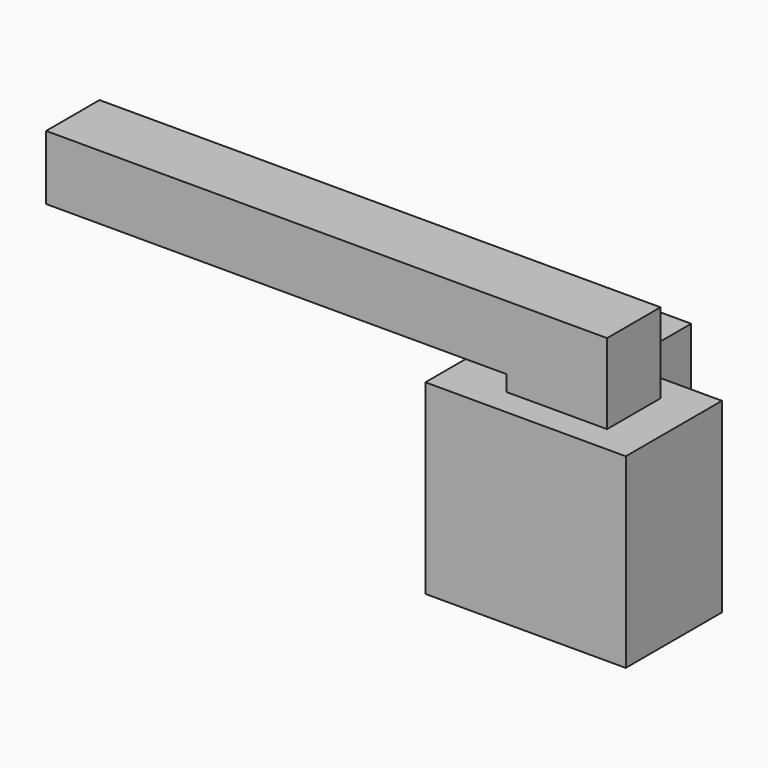
from build123d import *

# Parameters (mm, degrees)
F0_W     = 1500
F0_H     = 900
F1_DEPTH = 697.5
F2_W     = 250
F2_H     = 555
F3_DEPTH = 650
F4_W     = 1200
F4_H     = 500
F4_W_2   = 3000
F5_DEPTH = 600
F6_W     = 3447.103292
F6_H     = 118.000617
F7_DEPTH = 700


with BuildPart() as f1:
    # F0 (on Top) → F1 (new body, symmetric)
    with BuildSketch(Plane.XY):
        Rectangle(F0_W, F0_H)
    extrude(amount=F1_DEPTH, both=True)


with BuildPart() as f3:
    # F2 (on face) → F3 (new body)
    with BuildSketch(Plane(origin=(0, 450, 0), x_dir=(-1, 0, 0), z_dir=(0, 1, 0))):
        with Locations((125, 420)):
            Rectangle(F2_W, F2_H)
    extrude(amount=F3_DEPTH)


with BuildPart() as f5:
    # F4 (on face) → F5 (new body)
    with BuildSketch(Plane.XY.offset(697.5)):
        with Locations((-150, 0)):
            Rectangle(F4_W, F4_H)
        with Locations((-2250, 0)):
            Rectangle(F4_W_2, F4_H)
    extrude(amount=F5_DEPTH)

    # F6 (on face) → F7 (cut)
    with BuildSketch(Plane(origin=(0, 250, 0), x_dir=(-1, 0, 0), z_dir=(0, 1, 0))):
        with Locations((2026.448354, 756.500308)):
            Rectangle(F6_W, F6_H)
    extrude(amount=-F7_DEPTH, mode=Mode.SUBTRACT)


solid = Compound([f1.part, f3.part, f5.part])
